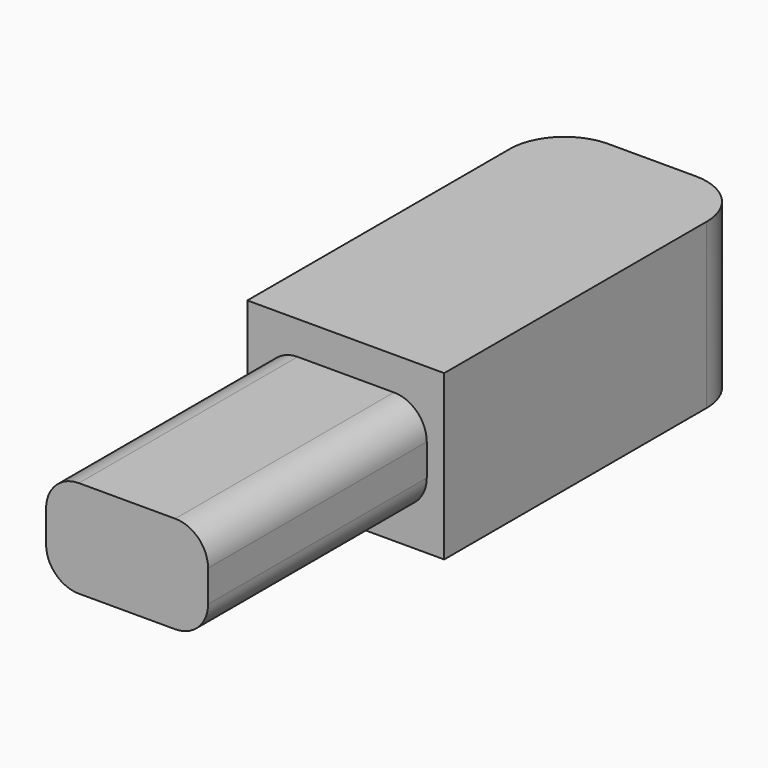
from build123d import *

# Parameters (mm, degrees)
F1_DEPTH = 15
F3_DEPTH = 25


with BuildPart() as f1:
    # F0 (on Top) → F1 (new body)
    with BuildSketch(Plane.XY):
        with BuildLine():
            Line((0, 30), (0, 0))
            Line((0, 0), (18, 0))
            Line((18, 0), (18, 30))
            ThreePointArc((18, 30), (16.535534, 33.535534), (13, 35))
            Line((13, 35), (5, 35))
            ThreePointArc((5, 35), (1.464466, 33.535534), (0, 30))
        make_face()
    extrude(amount=F1_DEPTH)

    # F2 (on face) → F3 (join)
    with BuildSketch(Plane.XZ):
        with BuildLine():
            ThreePointArc((16.405338, 8.951662), (15.526659, 11.072982), (13.405338, 11.951662))
            Line((13.405338, 11.951662), (4.594662, 11.951662))
            ThreePointArc((4.594662, 11.951662), (2.473341, 11.072982), (1.594662, 8.951662))
            Line((1.594662, 8.951662), (1.594662, 6.048338))
            ThreePointArc((1.594662, 6.048338), (2.473341, 3.927018), (4.594662, 3.048338))
            Line((4.594662, 3.048338), (13.405338, 3.048338))
            ThreePointArc((13.405338, 3.048338), (15.526659, 3.927018), (16.405338, 6.048338))
            Line((16.405338, 6.048338), (16.405338, 8.951662))
        make_face()
    extrude(amount=F3_DEPTH)


solid = f1.part
